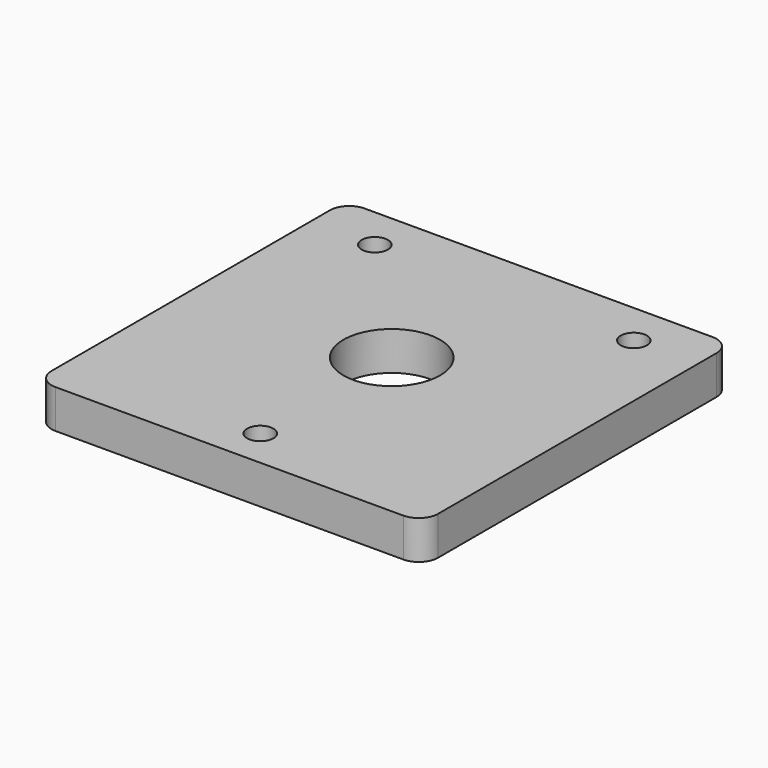
from build123d import *

# Parameters (mm, degrees)
F0_R     = 3.4
F0_R_2   = 12.5
F1_DEPTH = 10


with BuildPart() as f1:
    # F0 (on Top) → F1 (new body)
    with BuildSketch(Plane.XY):
        with BuildLine():
            ThreePointArc((50, 45), (48.535534, 48.535534), (45, 50))
            Line((45, 50), (-45, 50))
            ThreePointArc((-45, 50), (-48.535534, 48.535534), (-50, 45))
            Line((-50, 45), (-50, -45))
            ThreePointArc((-50, -45), (-48.535534, -48.535534), (-45, -50))
            Line((-45, -50), (45, -50))
            ThreePointArc((45, -50), (48.535534, -48.535534), (50, -45))
            Line((50, -45), (50, 45))
        make_face()
        with Locations((0, -40)):
            Circle(F0_R, mode=Mode.SUBTRACT)
        with Locations((-33.5, 38.8915)):
            Circle(F0_R, mode=Mode.SUBTRACT)
        with Locations((0, 2.5)):
            Circle(F0_R_2, mode=Mode.SUBTRACT)
        with Locations((33.5, 38.8915)):
            Circle(F0_R, mode=Mode.SUBTRACT)
    extrude(amount=F1_DEPTH)


solid = f1.part
